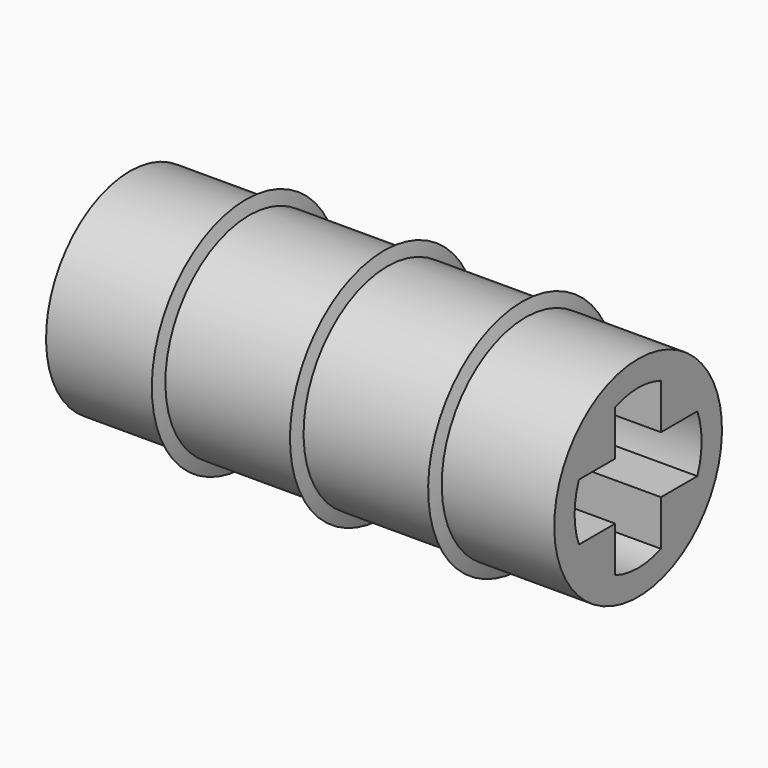
from build123d import *

# Parameters (mm, degrees)
F3_DEPTH = 16.001


with BuildPart() as f1:
    # F0 (on Front) → F1 (revolve)
    with BuildSketch(Plane.XZ):
        Polygon((8, 0), (8, 3.3), (4.45718, 3.3), (4.35, 3.7), (4.24282, 3.3), (0.10718, 3.3), (0, 3.7), (-0.10718, 3.3), (-4.24282, 3.3), (-4.35, 3.7), (-4.45718, 3.3), (-8, 3.3), (-8, 0), align=None)
    revolve(axis=Axis((-0.04464, 0, 0), (1, 0, 0)))

    # F2 (on face) → F3 (cut, through all)
    with BuildSketch(Plane(origin=(-8, 0, 0), x_dir=(0, -1, 0), z_dir=(-1, 0, 0))):
        with BuildLine():
            ThreePointArc((2.331309, -0.9), (2.45672, -0.457745), (2.499, 0))
            ThreePointArc((2.499, 0), (2.45672, 0.457745), (2.331309, 0.9))
            Line((2.331309, 0.9), (0.9, 0.9))
            Line((0.9, 0.9), (0.9, 2.331309))
            ThreePointArc((0.9, 2.331309), (0, 2.499), (-0.9, 2.331309))
            Line((-0.9, 2.331309), (-0.9, 0.9))
            Line((-0.9, 0.9), (-2.331309, 0.9))
            ThreePointArc((-2.331309, 0.9), (-2.499, 0), (-2.331309, -0.9))
            Line((-2.331309, -0.9), (-0.9, -0.9))
            Line((-0.9, -0.9), (-0.9, -2.331309))
            ThreePointArc((-0.9, -2.331309), (0, -2.499), (0.9, -2.331309))
            Line((0.9, -2.331309), (0.9, -0.9))
            Line((0.9, -0.9), (2.331309, -0.9))
        make_face()
    extrude(amount=-F3_DEPTH, mode=Mode.SUBTRACT)


solid = f1.part
